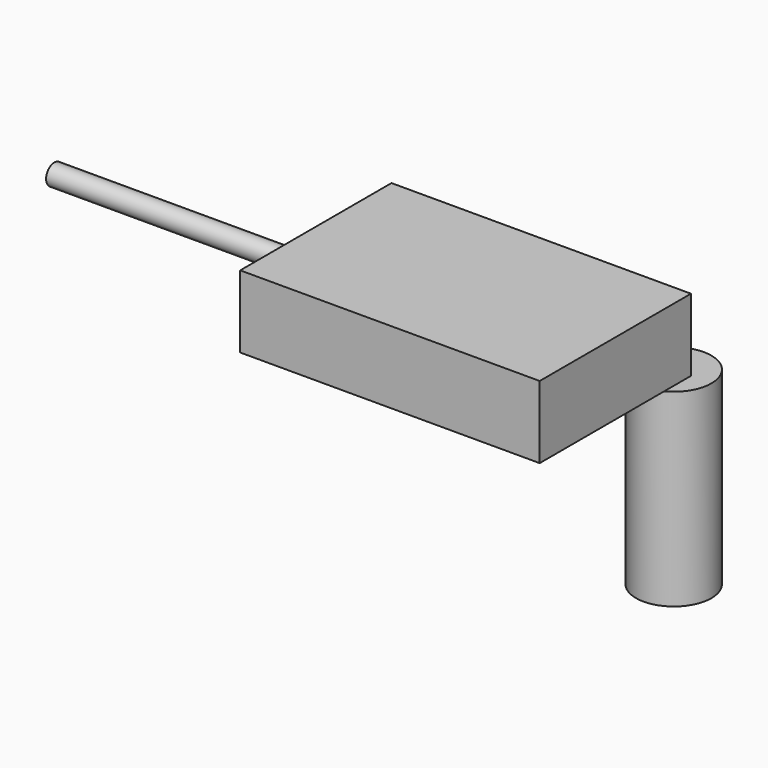
from build123d import *

# Parameters (mm, degrees)
F0_W     = 40.230050683
F0_H     = 9.7180828452
F1_DEPTH = 25.4
F2_R     = 1.3894743623
F2_R_2   = 1.1592895912
F3_DEPTH = 35.3568
F4_R     = 5.0629514974
F5_DEPTH = 25.4


with BuildPart() as f1:
    # F0 (on Front) → F1 (new body)
    with BuildSketch(Plane.XZ):
        with Locations((-104.2651683092, 49.1601750255)):
            Rectangle(F0_W, F0_H)
    extrude(amount=F1_DEPTH)

    # F2 (on face) → F3 (join)
    with BuildSketch(Plane(origin=(-124.3801936507, 0, 0), x_dir=(0, -1, 0), z_dir=(-1, 0, 0))):
        with Locations((12.4141043052, 48.6199855804)):
            Circle(F2_R)
        with Locations((12.4141043052, 48.6199855804)):
            Circle(F2_R_2, mode=Mode.SUBTRACT)
    extrude(amount=F3_DEPTH)

    # F4 (on face) → F5 (join)
    with BuildSketch(Plane(origin=(0, 0, 44.3011336029), x_dir=(1, 0, 0), z_dir=(0, 0, -1))):
        with Locations((-86.4652916789, 0)):
            Circle(F4_R)
    extrude(amount=F5_DEPTH)


solid = f1.part
